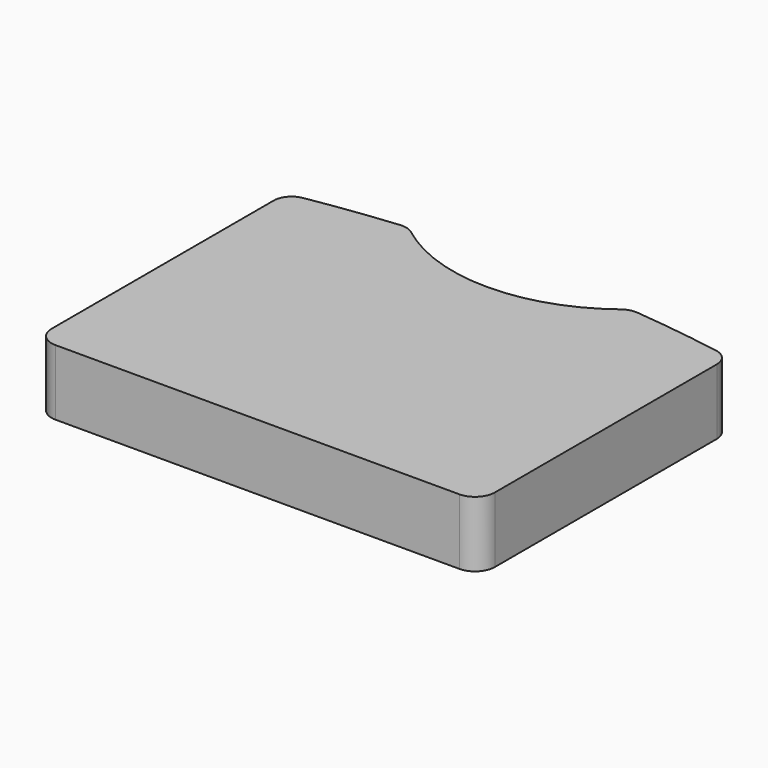
from build123d import *

# Parameters (mm, degrees)
F1_DEPTH = 40


with BuildPart() as f1:
    # F0 (on Top) → F1 (new body)
    with BuildSketch(Plane.XY):
        with BuildLine():
            ThreePointArc((-135, -87.75), (-131.485281, -96.235281), (-123, -99.75))
            Line((-123, -99.75), (123, -99.75))
            ThreePointArc((123, -99.75), (131.485281, -96.235281), (135, -87.75))
            Line((135, -87.75), (135, 81.331121))
            ThreePointArc((135, 81.331121), (132.403394, 88.429218), (125.839459, 92.17623))
            ThreePointArc((125.839459, 92.17623), (99.105981, 96.217898), (72.244569, 99.296609))
            ThreePointArc((72.244569, 99.296609), (67.790252, 98.888715), (63.794752, 96.877918))
            ThreePointArc((63.794752, 96.877918), (33.680622, 80.80401), (0, 75.25))
            ThreePointArc((0, 75.25), (-33.680622, 80.80401), (-63.794752, 96.877918))
            ThreePointArc((-63.794752, 96.877918), (-67.790252, 98.888715), (-72.244569, 99.296609))
            ThreePointArc((-72.244569, 99.296609), (-99.105981, 96.217898), (-125.839459, 92.17623))
            ThreePointArc((-125.839459, 92.17623), (-132.403394, 88.429218), (-135, 81.331121))
            Line((-135, 81.331121), (-135, -87.75))
        make_face()
    extrude(amount=F1_DEPTH)


solid = f1.part
